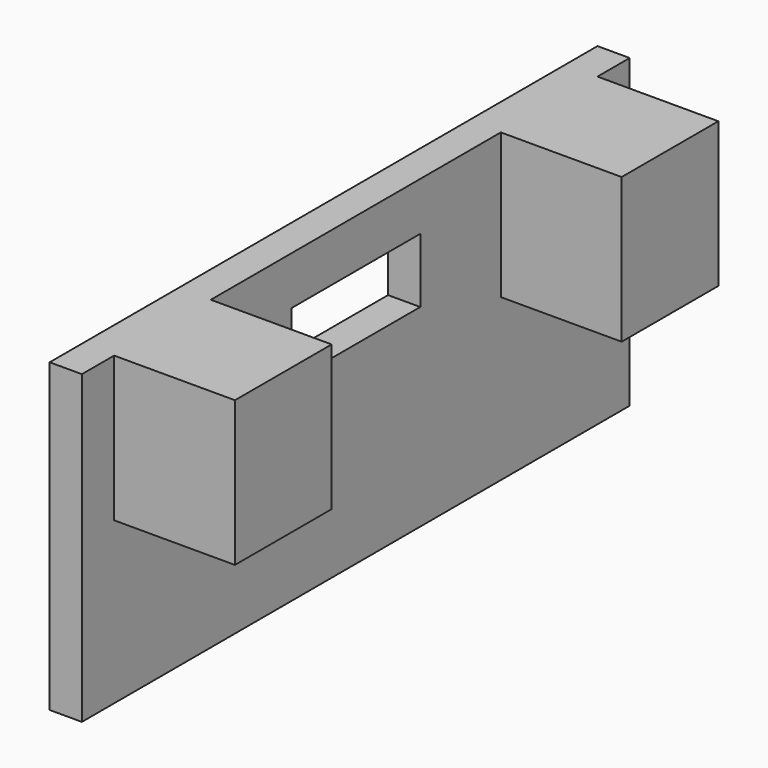
from build123d import *

# Parameters (mm, degrees)
SKETCH049_W     = 17
SKETCH049_H     = 7.6
PAD022_DEPTH    = 0.8
SKETCH050_W     = 3
SKETCH050_H     = 3.6
PAD023_DEPTH    = 3
SKETCH051_W     = 4
SKETCH051_H     = 1.6
POCKET017_DEPTH = 0.801


with BuildPart() as part:
    # Sketch049 → Pad022 (new body)
    with BuildSketch(Plane.YZ):
        Rectangle(SKETCH049_W, SKETCH049_H)
    extrude(amount=PAD022_DEPTH)

    # Sketch050 (on Face6 of Pad022) → Pad023 (join)
    with BuildSketch(Plane.YZ.offset(0.8)):
        with Locations((-6, 2)):
            Rectangle(SKETCH050_W, SKETCH050_H)
        with Locations((6, 2)):
            Rectangle(SKETCH050_W, SKETCH050_H)
    extrude(amount=PAD023_DEPTH)

    # Sketch051 (on Face5 of Pad023) → Pocket017 (cut, through all)
    with BuildSketch(Plane.YZ.offset(0.8)):
        with Locations((0, 1.8)):
            Rectangle(SKETCH051_W, SKETCH051_H)
    extrude(amount=-POCKET017_DEPTH, mode=Mode.SUBTRACT)


with BuildPart() as part_1:
    # Body006 placement: moved
    add(part.part.moved(Location((55.8, 12.5, 14))))


solid = part_1.part
